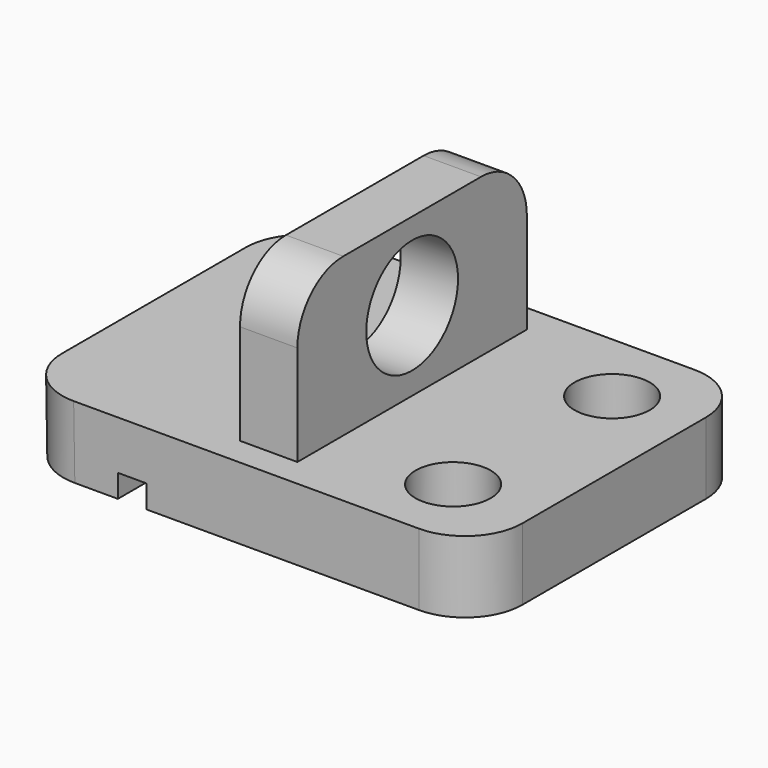
from build123d import *

# Parameters (mm, degrees)
F1_DEPTH  = 15
F0_W      = 5
F0_H      = 13.750002
F2_DEPTH  = 12.5
F4_R      = 5
F5_R      = 5
F6_R      = 5
F7_R      = 3.275
F8_DEPTH  = 25
F3_W      = 2.5
F3_H      = 2
F9_DEPTH  = 50
F10_R     = 5
F11_DEPTH = 30


with BuildPart() as f1:
    # F0 (on Front) → F1 (new body, symmetric)
    with BuildSketch(Plane.XZ):
        Polygon((6.421984, -16.497303), (-11.078016, -16.497303), (-10.973849, -22.747303), (29.026151, -22.747303), (29.026151, -16.497303), (11.421984, -16.497303), align=None)
    extrude(amount=F1_DEPTH, both=True)

    # F0 (on Front) → F2 (join, symmetric)
    with BuildSketch(Plane.XZ):
        Polygon((6.421984, -16.497303), (-11.078016, -16.497303), (-10.973849, -22.747303), (29.026151, -22.747303), (29.026151, -16.497303), (11.421984, -16.497303), align=None)
        with Locations((8.921984, -9.622302)):
            Rectangle(F0_W, F0_H)
    extrude(amount=F2_DEPTH, both=True)

    # F4
    f4_edges = [f1.edges().sort_by_distance(p)[0] for p in [
        (29.026151, -15, -19.622303),
    ]]
    fillet(f4_edges, radius=F4_R)

    # F5
    f5_edges = [f1.edges().sort_by_distance(p)[0] for p in [
        (29.026151, 15, -19.622303),
        (-11.025932, -15, -19.622303),
        (-11.025932, 15, -19.622303),
    ]]
    fillet(f5_edges, radius=F5_R)

    # F6
    f6_edges = [f1.edges().sort_by_distance(p)[0] for p in [
        (8.921984, 12.5, -2.747301),
        (8.921984, -12.5, -2.747301),
    ]]
    fillet(f6_edges, radius=F6_R)

    # F7 (on Top) → F8 (cut)
    with BuildSketch(Plane.XY):
        with Locations((22.092594, 8.45)):
            Circle(F7_R)
        with Locations((21.753448, -8.45)):
            Circle(F7_R)
    extrude(amount=-F8_DEPTH, mode=Mode.SUBTRACT)

    # F3 (on Front) → F9 (cut, symmetric)
    with BuildSketch(Plane.XZ):
        with Locations((-0.973849, -21.747303)):
            Rectangle(F3_W, F3_H)
    extrude(amount=F9_DEPTH, both=True, mode=Mode.SUBTRACT)

    # F10 (on Right) → F11 (cut, symmetric)
    with BuildSketch(Plane.YZ):
        with Locations((0, -9.563591)):
            Circle(F10_R)
    extrude(amount=F11_DEPTH, both=True, mode=Mode.SUBTRACT)


solid = f1.part
